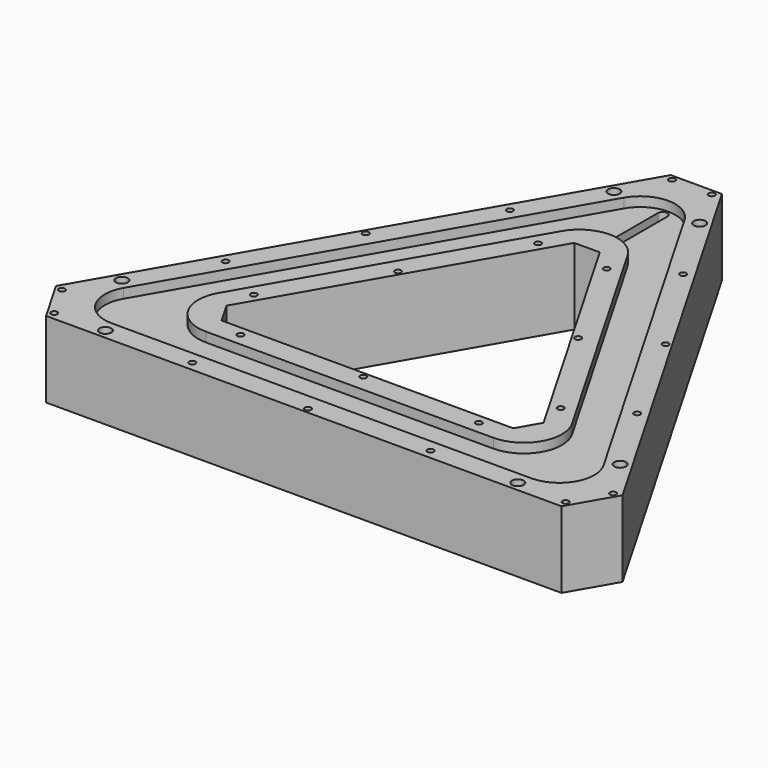
from build123d import *

# Parameters (mm, degrees)
PAD_DEPTH             = 24
POCKET_DEPTH          = 3
SKETCH002_W           = 70
SKETCH002_H           = 18.5
POCKET001_DEPTH       = 18
POLARPATTERN_COUNT    = 3
POCKET002_DEPTH       = 6
CHAMFER_SIZE          = 8
FILLET_R              = 13
FILLET001_R           = 11
CHAMFER001_SIZE       = 16.1
FILLET002_R           = 11
FILLET003_R           = 12
POCKET003_DEPTH       = 6
POCKET004_DEPTH       = 18
POCKET005_DEPTH       = 21.001
SKETCH007_W           = 15.5
SKETCH007_H           = 15
POCKET006_DEPTH       = 5
SKETCH010_W           = 13.6
SKETCH010_H           = 9
POCKET009_DEPTH       = 15.5
POCKET010_DEPTH       = 3
SKETCH012_R           = 1.85
SKETCH012_R_2         = 0.99
POCKET011_DEPTH       = 498.0492855781
POLARPATTERN001_COUNT = 3
POCKET012_DEPTH       = 12
POCKET013_DEPTH       = 3
POCKET014_DEPTH       = 3
FILLET004_R           = 0.6
FILLET005_R           = 2.6


with BuildPart() as part:
    # Sketch → Pad (new body)
    with BuildSketch(Plane.XY):
        Polygon((0, 112.2094915052), (-97.1762701892, -56.1047457526), (97.1762701892, -56.1047457526), align=None)
        Polygon((0, 62.2094915052), (-53.875, -31.1047457526), (53.875, -31.1047457526), align=None, mode=Mode.SUBTRACT)
    extrude(amount=PAD_DEPTH)

    # Sketch001 (on Face8 of Pad) → Pocket (cut)
    with BuildSketch(Plane.XY.offset(24)):
        Polygon((0, 98.2094915052), (-85.0519145362, -49.1047457526), (85.0519145362, -49.1047457526), align=None)
        Polygon((0, 76.2094915052), (-65.999355653, -38.1047457526), (65.999355653, -38.1047457526), align=None, mode=Mode.SUBTRACT)
    extrude(amount=-POCKET_DEPTH, mode=Mode.SUBTRACT)

    # Sketch002 (on Face4 of Pocket) → Pocket001 (cut)
    with BuildSketch(Plane(origin=(0, 0, 0), x_dir=(1, 0, 0), z_dir=(0, 0, -1))):
        with Locations((0, 43.6047457526)):
            Rectangle(SKETCH002_W, SKETCH002_H)
    pocket001 = extrude(amount=-POCKET001_DEPTH, mode=Mode.SUBTRACT)

    # PolarPattern: Pocket001 ×3 about axis
    polarpattern_axis = Axis((0, 0, 0), (0, 0, -1))
    for i in range(1, POLARPATTERN_COUNT):
        add(pocket001.rotate(polarpattern_axis, i * 360 / POLARPATTERN_COUNT), mode=Mode.SUBTRACT)

    # Sketch003 (on Face4 of PolarPattern) → Pocket002 (cut)
    with BuildSketch(Plane(origin=(0, 0, 0), x_dir=(1, 0, 0), z_dir=(0, 0, -1))):
        Polygon((0, -100.2094915052), (86.7839653438, 50.1047457526), (-86.7839653438, 50.1047457526), align=None)
        Polygon((0, -74.2094915052), (64.2673048454, 37.1047457526), (-64.2673048454, 37.1047457526), align=None, mode=Mode.SUBTRACT)
    extrude(amount=-POCKET002_DEPTH, mode=Mode.SUBTRACT)

    # Chamfer
    chamfer_edges = [part.edges().sort_by_distance(p)[0] for p in [
        (-53.875, -31.104746, 12),
        (53.875, -31.104746, 12),
        (0, 62.209492, 12),
    ]]
    chamfer(chamfer_edges, length=CHAMFER_SIZE)

    # Fillet
    fillet_edges = [part.edges().sort_by_distance(p)[0] for p in [
        (0, 100.209492, 3),
        (-86.783965, -50.104746, 3),
        (86.783965, -50.104746, 3),
    ]]
    fillet(fillet_edges, radius=FILLET_R)

    # Fillet001
    fillet001_edges = [part.edges().sort_by_distance(p)[0] for p in [
        (0, 74.209492, 3),
        (64.267305, -37.104746, 3),
        (-64.267305, -37.104746, 3),
    ]]
    fillet(fillet001_edges, radius=FILLET001_R)

    # Chamfer001
    chamfer001_edges = [part.edges().sort_by_distance(p)[0] for p in [
        (97.17627, -56.104746, 12),
        (0, 112.209492, 12),
        (-97.17627, -56.104746, 12),
    ]]
    chamfer(chamfer001_edges, length=CHAMFER001_SIZE)

    # Fillet002
    fillet002_edges = [part.edges().sort_by_distance(p)[0] for p in [
        (0, 98.209492, 22.5),
        (-85.051915, -49.104746, 22.5),
        (85.051915, -49.104746, 22.5),
    ]]
    fillet(fillet002_edges, radius=FILLET002_R)

    # Fillet003
    fillet003_edges = [part.edges().sort_by_distance(p)[0] for p in [
        (65.999356, -38.104746, 22.5),
        (0, 76.209492, 22.5),
        (-65.999356, -38.104746, 22.5),
    ]]
    fillet(fillet003_edges, radius=FILLET003_R)

    # Sketch004 (on Face60 of Fillet003) → Pocket003 (cut)
    with BuildSketch(Plane(origin=(0, 0, 6), x_dir=(1, 0, 0), z_dir=(0, 0, -1))):
        Polygon((-8.75, -71.2664825043), (8.75, -71.2664825043), (8.75, -94.7664825043), (4, -94.7664825043), (4, -98.2664825043), (-4, -98.2664825043), (-4, -94.7664825043), (-8.75, -94.7664825043), align=None)
    extrude(amount=-POCKET003_DEPTH, mode=Mode.SUBTRACT)

    # Sketch005 (on Face29 of Pocket003) → Pocket004 (cut)
    with BuildSketch(Plane(origin=(0, 0, 0), x_dir=(1, 0, 0), z_dir=(0, 0, -1))):
        Polygon((46.1715988394, 38.9547457526), (68.6882593378, 51.9547457526), (79.3382593378, 33.508404652), (56.8215988394, 20.508404652), align=None)
    extrude(amount=-POCKET004_DEPTH, mode=Mode.SUBTRACT)

    # Sketch006 (on Face1 of Pocket004) → Pocket005 (cut, through all)
    with BuildSketch(Plane.XY.offset(21)):
        with BuildLine():
            ThreePointArc((1.5, 85.0404521425), (0, 86.5404521425), (-1.5, 85.0404521425))
            Line((-1.5, 85.0404521425), (-1.5, 66.0404521425))
            ThreePointArc((-1.5, 66.0404521425), (0, 64.5404521425), (1.5, 66.0404521425))
            Line((1.5, 85.0404521425), (1.5, 66.0404521425))
        make_face()
    extrude(amount=-POCKET005_DEPTH, mode=Mode.SUBTRACT)

    # Sketch007 (on Face24 of Pocket005) → Pocket006 (cut)
    with BuildSketch(Plane(origin=(-48.5881350946, 28.0523728763, 0), x_dir=(-0.5, -0.8660254038, 0), z_dir=(-0.8660254038, 0.5, 0))):
        with Locations((-47.3262701892, 13.5)):
            Rectangle(SKETCH007_W, SKETCH007_H)
    extrude(amount=-POCKET006_DEPTH, mode=Mode.SUBTRACT)

    # Sketch010 (on Face79 of Pocket006) → Pocket009 (cut)
    with BuildSketch(Plane(origin=(-44.2580080757, 25.5523728763, 0), x_dir=(-0.5, -0.8660254038, 0), z_dir=(-0.8660254038, 0.5, 0))):
        with Locations((-47.3262701892, 13.5)):
            Rectangle(SKETCH010_W, SKETCH010_H)
    extrude(amount=-POCKET009_DEPTH, mode=Mode.SUBTRACT)

    # Sketch011 (on Face21 of Pocket009) → Pocket010 (cut)
    with BuildSketch(Plane(origin=(0, 0, 6), x_dir=(1, 0, 0), z_dir=(0, 0, -1))):
        Polygon((-21.0413798427, -59.7570681827), (-11.6817654684, -54.3532923042), (-6.658482036, -63.0538744299), (-16.0180964103, -68.4576503084), align=None)
    extrude(amount=-POCKET010_DEPTH, mode=Mode.SUBTRACT)

    # Sketch012 (on Face54 of Pocket010) → Pocket011 (cut, through all)
    with BuildSketch(Plane(origin=(0, 0, 0), x_dir=(1, 0, 0), z_dir=(0, 0, -1))):
        with Locations((-13.5, -82.7032108255)):
            Circle(SKETCH012_R)
        with Locations((13.5, -82.7032108255)):
            Circle(SKETCH012_R)
        with Locations((-6.25, -96.5164825043)):
            Circle(SKETCH012_R_2)
        with Locations((6.25, -96.5164825043)):
            Circle(SKETCH012_R_2)
        with Locations((-27.2463245869, -59.0174730012)):
            Circle(SKETCH012_R_2)
        with Locations((-47.1862074814, -27.2405827309)):
            Circle(SKETCH012_R_2)
        with Locations((-64.7337931796, 5.9127272486)):
            Circle(SKETCH012_R_2)
        with Locations((-10.791841915, -49.5174730012)):
            Circle(SKETCH012_R_2)
        with Locations((-28.3394276132, -16.3641630217)):
            Circle(SKETCH012_R_2)
        with Locations((-48.2793105078, 15.4127272487)):
            Circle(SKETCH012_R_2)
    pocket011 = extrude(amount=-POCKET011_DEPTH, mode=Mode.SUBTRACT)

    # PolarPattern001: Pocket011 ×3 about axis
    polarpattern001_axis = Axis((0, 0, 0), (0, 0, -1))
    for i in range(1, POLARPATTERN001_COUNT):
        add(pocket011.rotate(polarpattern001_axis, i * 360 / POLARPATTERN001_COUNT), mode=Mode.SUBTRACT)

    # Sketch013 (on Face132 of PolarPattern001) → Pocket012 (cut)
    with BuildSketch(Plane(origin=(0, 0, 6), x_dir=(1, 0, 0), z_dir=(0, 0, -1))):
        Polygon((58.553649647, 21.508404652), (63.3167893678, 24.258404652), (66.3167893678, 19.0622522293), (61.553649647, 16.3122522293), align=None)
    extrude(amount=-POCKET012_DEPTH, mode=Mode.SUBTRACT)

    # Sketch014 (on Face127 of Pocket012) → Pocket013 (cut)
    with BuildSketch(Plane(origin=(0, 0, 6), x_dir=(1, 0, 0), z_dir=(0, 0, -1))):
        Polygon((-74.3478338252, 33.3748379063), (-65.8478338252, 48.0972697706), (-52.8574527684, 40.5972697706), (-61.3574527684, 25.8748379063), align=None)
    extrude(amount=-POCKET013_DEPTH, mode=Mode.SUBTRACT)

    # Sketch015 (on Face21 of Pocket013) → Pocket014 (cut)
    with BuildSketch(Plane(origin=(0, 0, 6), x_dir=(1, 0, 0), z_dir=(0, 0, -1))):
        with BuildLine():
            ThreePointArc((-8.75, -64.2614128894), (-12.2525348074, -67.7639476968), (-8.75, -71.2664825043))
            Line((-8.75, -71.2664825043), (8.73, -71.2664825043))
            ThreePointArc((8.73, -71.2664825043), (12.2325348074, -67.7639476968), (8.73, -64.2614128894))
            Line((-8.75, -64.2614128894), (8.73, -64.2614128894))
        make_face()
    extrude(amount=-POCKET014_DEPTH, mode=Mode.SUBTRACT)

    # Fillet004
    fillet004_edges = [part.edges().sort_by_distance(p)[0] for p in [
        (-8.75, 64.261413, 7.5),
    ]]
    fillet(fillet004_edges, radius=FILLET004_R)

    # Fillet005
    fillet005_edges = [part.edges().sort_by_distance(p)[0] for p in [
        (-11.783284, 66.01268, 7.5),
    ]]
    fillet(fillet005_edges, radius=FILLET005_R)


solid = part.part
